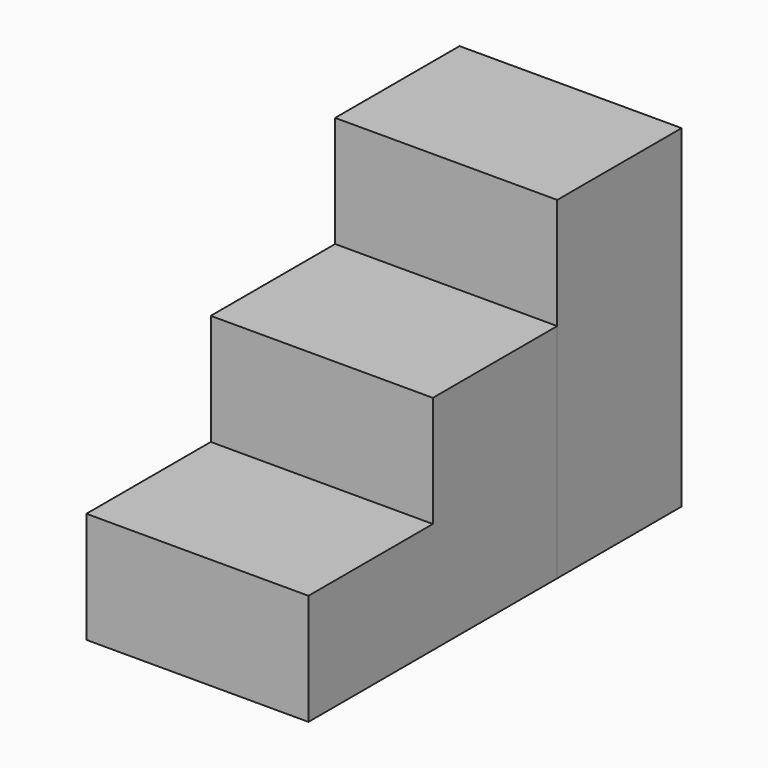
from build123d import *

# Parameters (mm, degrees)
F0_W     = 1270
F0_H     = 889
F3_DEPTH = 635
F1_W     = 1270
F1_H     = 889
F4_DEPTH = 1270
F2_W     = 1270
F2_H     = 889
F5_DEPTH = 1905


with BuildPart() as f3:
    # F0 (on Top) → F3 (new body)
    with BuildSketch(Plane.XY):
        with Locations((635, -444.5)):
            Rectangle(F0_W, F0_H)
    extrude(amount=F3_DEPTH)

    # F1 (on face) → F4 (join)
    with BuildSketch(Plane.XY):
        with Locations((635, 444.5)):
            Rectangle(F1_W, F1_H)
    extrude(amount=F4_DEPTH)


with BuildPart() as f5:
    # F2 (on face) → F5 (new body)
    with BuildSketch(Plane.XY):
        with Locations((635, 1333.529622)):
            Rectangle(F2_W, F2_H)
    extrude(amount=F5_DEPTH)


solid = Compound([f3.part, f5.part])
